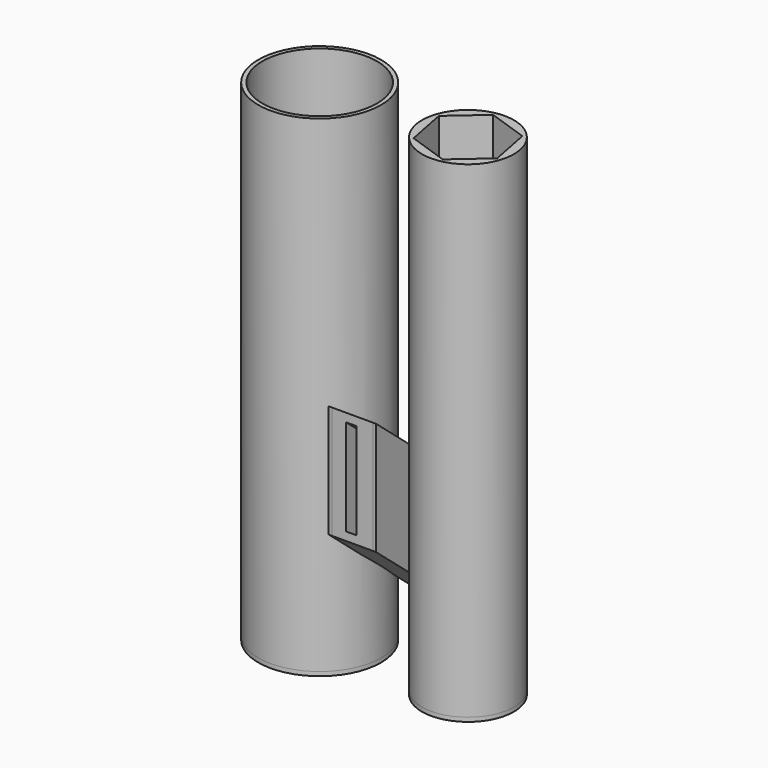
from build123d import *

# Parameters (mm, degrees)
F0_R      = 19.05
F0_R_2    = 17.78
F0_R_3    = 9.525
F1_DEPTH  = 1.27
F2_DEPTH  = 151.13
F3_DEPTH  = 76.2
F5_DEPTH  = 25
F6_START  = -5.08
F6_DEPTH  = 3.302
F7_DEPTH  = 1
F8_DEPTH  = 1
F10_DEPTH = 25


with BuildPart() as f1:
    # F0 (on Top) → F1 (new body)
    with BuildSketch(Plane.XY):
        with Locations((-55.5866120592, 34.7886830568)):
            Circle(F0_R)
        with Locations((-55.5866120592, 34.7886830568)):
            Circle(F0_R_2, mode=Mode.SUBTRACT)
        with Locations((-55.5866120592, 34.7886830568)):
            Circle(F0_R_2)
        with Locations((-55.5866120592, 34.7886830568)):
            Circle(F0_R_3, mode=Mode.SUBTRACT)
        with BuildLine():
            ThreePointArc((4.7383879408, 34.7886830568), (-9.5491120592, 49.0761830568), (-23.8366120592, 34.7886830568))
            ThreePointArc((-23.8366120592, 34.7886830568), (-9.5491120592, 20.5011830568), (4.7383879408, 34.7886830568))
        make_face()
        Polygon((2.9366439238, 30.5109386121), (-7.0108694278, 21.8368289678), (-19.4966254107, 26.1145734125), (-22.0348680421, 39.0664275016), (-12.0873546906, 47.7405371459), (0.3984012923, 43.4627927011), align=None, mode=Mode.SUBTRACT)
        Polygon((-19.4966254107, 26.1145734125), (-7.0108694278, 21.8368289678), (2.9366439238, 30.5109386121), (0.3984012923, 43.4627927011), (-12.0873546906, 47.7405371459), (-22.0348680421, 39.0664275016), align=None)
    extrude(amount=-F1_DEPTH)

    # F0 (on Top) → F2 (join)
    with BuildSketch(Plane.XY):
        with Locations((-55.5866120592, 34.7886830568)):
            Circle(F0_R)
        with Locations((-55.5866120592, 34.7886830568)):
            Circle(F0_R_2, mode=Mode.SUBTRACT)
        with BuildLine():
            ThreePointArc((4.7383879408, 34.7886830568), (-9.5491120592, 49.0761830568), (-23.8366120592, 34.7886830568))
            ThreePointArc((-23.8366120592, 34.7886830568), (-9.5491120592, 20.5011830568), (4.7383879408, 34.7886830568))
        make_face()
        Polygon((2.9366439238, 30.5109386121), (-7.0108694278, 21.8368289678), (-19.4966254107, 26.1145734125), (-22.0348680421, 39.0664275016), (-12.0873546906, 47.7405371459), (0.3984012923, 43.4627927011), align=None, mode=Mode.SUBTRACT)
    extrude(amount=F2_DEPTH)



with BuildPart() as f3:
    # F0 (on Top) → F3 (new body)
    with BuildSketch(Plane.XY):
        Polygon((-36.5366120592, 53.8386830568), (-36.5366120592, 34.7886830568), (-36.5366120592, 15.7386830568), (-23.8366120592, 15.7386830568), (-23.8366120592, 34.7886830568), (-23.8366120592, 53.8386830568), align=None)
    extrude(amount=F3_DEPTH)

    # F4 (on face) → F5 (cut)
    with BuildSketch(Plane.YZ.offset(-23.8366120592)):
        Polygon((15.7386830568, 76.2), (53.8386830568, 44.2303040521), (53.8386830568, 76.2), align=None)
        Polygon((53.8386830568, 0), (53.8386830568, 9.1670642607), (15.7386830568, 41.1367602085), (15.7386830568, 0), align=None)
    extrude(amount=-F5_DEPTH, mode=Mode.SUBTRACT)

    # F4 (on face) → F6 (cut)
    with BuildSketch(Plane.YZ.offset(-23.8366120592).offset(F6_START)):
        Polygon((53.8386830568, 11.7778788393), (53.8386830568, 41.6194894735), (15.7386830568, 73.5891854213), (15.7386830568, 43.7475747872), align=None)
    extrude(amount=-F6_DEPTH, mode=Mode.SUBTRACT)


with BuildPart() as f1_1:
    add(f1.part)
    # F7 (add): a face of the model
    f7_faces = [f3.part.faces().sort_by_distance(p)[0] for p in [
        (-36.5366120592, 34.7886830568, 42.6835321303),
    ]]

    add(f3.part)  # F7 merges F3
    extrude(f7_faces, amount=F7_DEPTH)

    # F8 (add): faces of the model
    f8_faces = [f1_1.faces().sort_by_distance(p)[0] for p in [
        (-23.8366120592, 25.2636830568, 50.6759561173),
        (-23.8366120592, 44.3136830568, 34.6911081434),
    ]]
    extrude(f8_faces, amount=F8_DEPTH)

    # F9 (on face) → F10 (cut)
    with BuildSketch(Plane(origin=(0, 0, -1.27), x_dir=(1, 0, 0), z_dir=(0, 0, -1))):
        Polygon((-12.0873546906, -47.7405371459), (-5.8444766991, -45.6016649235), (-17.0611113664, -43.4034823237), align=None)
    extrude(amount=-F10_DEPTH, mode=Mode.SUBTRACT)


solid = f1_1.part
